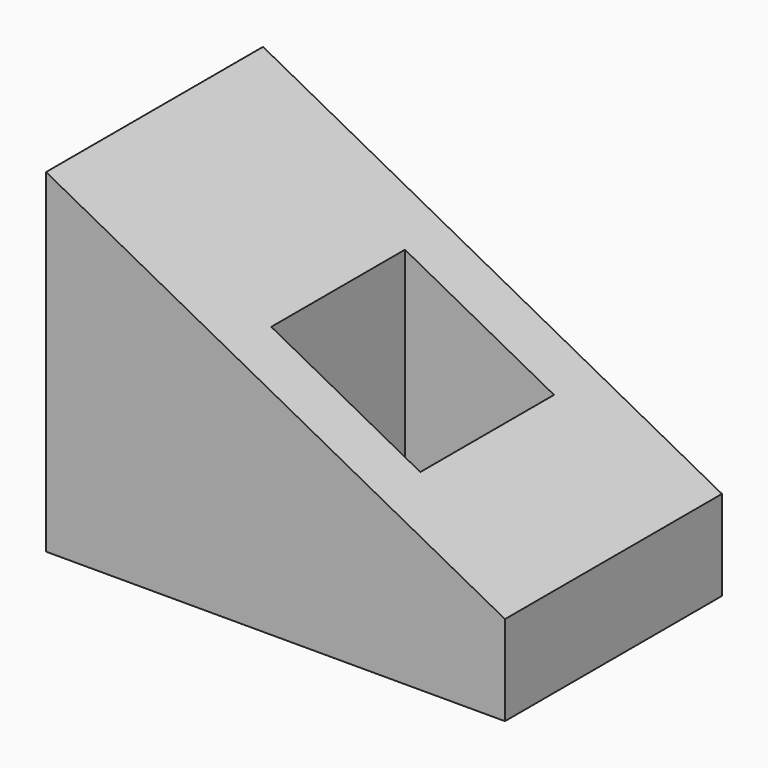
from build123d import *

# Parameters (mm, degrees)
F0_W     = 25.4
F0_H     = 15.0114
F0_W_2   = 8.25
F0_H_2   = 9.25
F1_DEPTH = 18.5
F3_DEPTH = 25.4
F4_SIZE  = 0.508


with BuildPart() as f1:
    # F0 (on Top) → F1 (new body)
    with BuildSketch(Plane.XY):
        Rectangle(F0_W, F0_H)
        with Locations((1.585, 0)):
            Rectangle(F0_W_2, F0_H_2, mode=Mode.SUBTRACT)
    extrude(amount=F1_DEPTH)

    # F2 (on face) → F3 (cut)
    with BuildSketch(Plane.XZ.offset(7.5057)):
        Polygon((12.7, 18.5), (-12.7, 18.5), (12.7, 4.97428), align=None)
    extrude(amount=-F3_DEPTH, mode=Mode.SUBTRACT)

    # F4
    f4_edges = [f1.edges().sort_by_distance(p)[0] for p in [
        (-2.54, 0, 0),
        (1.585, 4.625, 0),
        (5.71, 0, 0),
        (1.585, -4.625, 0),
    ]]
    chamfer(f4_edges, length=F4_SIZE)


solid = f1.part
